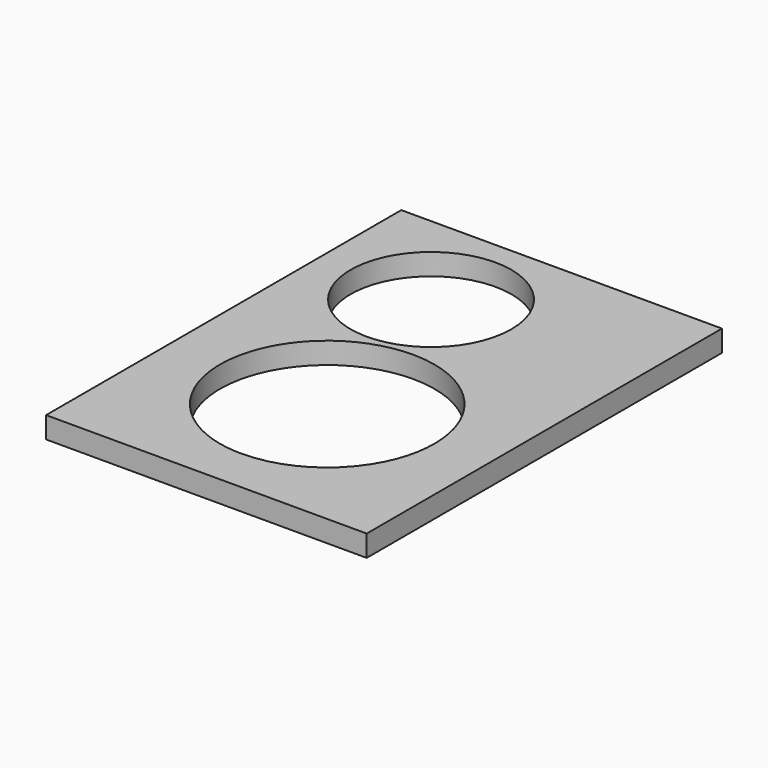
from build123d import *

# Parameters (mm, degrees)
F0_W     = 299
F0_H     = 414
F1_DEPTH = 20
F2_R     = 75
F3_DEPTH = 20.001


with BuildPart() as f1:
    # F0 (on Top) → F1 (new body)
    with BuildSketch(Plane.XY):
        with Locations((149.5, 207)):
            Rectangle(F0_W, F0_H)
    extrude(amount=F1_DEPTH)

    # F2 (on face) → F3 (cut, through all)
    with BuildSketch(Plane.XY.offset(20)):
        with Locations((105, 317.400873)):
            Circle(F2_R)
        with BuildLine():
            add(Edge.make_bspline(
                [(149, 41.403183), (322.205081, 41.403183), (235.60254, 191.403183), (149, 341.403183), (62.39746, 191.403183), (-24.205081, 41.403183), (149, 41.403183)],
                knots=[0, 0, 0, 2.094395, 2.094395, 4.18879, 4.18879, 6.283185, 6.283185, 6.283185], degree=2, weights=[1, 0.5, 1, 0.5, 1, 0.5, 1]))
        make_face()
    extrude(amount=-F3_DEPTH, mode=Mode.SUBTRACT)


solid = f1.part
